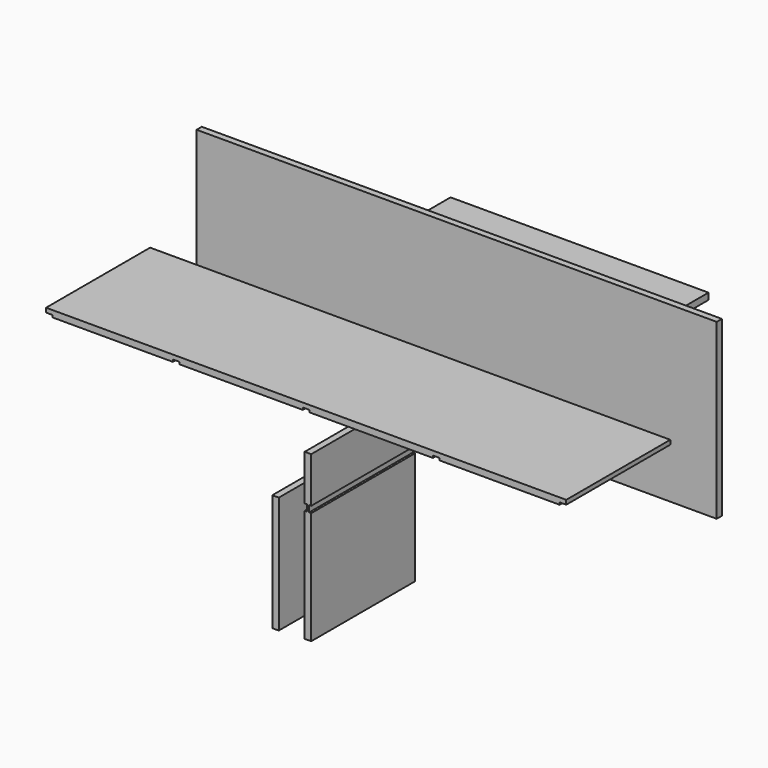
from build123d import *

# Parameters (mm, degrees)
F0_W      = 1524
F0_H      = 508
F1_DEPTH  = 19.05
F2_W      = 1524
F2_H      = 381
F3_DEPTH  = 19.05
F4_W      = 381
F4_H      = 482.6
F5_DEPTH  = 19.05
F6_W      = 19.05
F6_H      = 6.35
F7_DEPTH  = 381
F8_W      = 6.35
F8_H      = 19.05
F9_DEPTH  = 381
F10_W     = 755.65
F10_H     = 381
F11_DEPTH = 19.05
F12_W     = 19.05
F12_H     = 6.35
F13_DEPTH = 381
F15_START = -76.2
F14_W     = 381
F14_H     = 342.9
F15_DEPTH = 19.05


with BuildPart() as f1:
    # F0 (on Front) → F1 (new body)
    with BuildSketch(Plane.XZ):
        Rectangle(F0_W, F0_H)
    extrude(amount=F1_DEPTH)


with BuildPart() as f3:
    # F2 (on Top) → F3 (new body)
    with BuildSketch(Plane.XY):
        with Locations((0, -379.7005197639)):
            Rectangle(F2_W, F2_H)
    extrude(amount=F3_DEPTH)

    # F6 (on face) → F7 (cut)
    with BuildSketch(Plane.XZ.offset(570.2005197639)):
        with Locations((-752.475, 3.175)):
            Rectangle(F6_W, F6_H)
        Polygon((-390.525, 6.35), (-390.525, 0), (-381, 0), (-371.475, 0), (-371.475, 6.35), align=None)
        with Locations((0, 3.175)):
            Rectangle(F6_W, F6_H)
        Polygon((371.475, 6.35), (371.475, 0), (381, 0), (390.525, 0), (390.525, 6.35), align=None)
        with Locations((752.475, 3.175)):
            Rectangle(F6_W, F6_H)
    extrude(amount=-F7_DEPTH, mode=Mode.SUBTRACT)


with BuildPart() as f5:
    # F4 (on Right) → F5 (new body)
    with BuildSketch(Plane.YZ):
        with Locations((-385.0430771708, -343.9277655403)):
            Rectangle(F4_W, F4_H)
    extrude(amount=F5_DEPTH)

    # F8 (on face) → F9 (cut)
    with BuildSketch(Plane.XZ.offset(575.5430771708)):
        with Locations((15.875, -245.5027655403)):
            Rectangle(F8_W, F8_H)
        with Locations((3.175, -245.5027655403)):
            Rectangle(F8_W, F8_H)
    extrude(amount=-F9_DEPTH, mode=Mode.SUBTRACT)


with BuildPart() as f11:
    # F10 (on Top) → F11 (new body)
    with BuildSketch(Plane.XY):
        with Locations((-3.088874507, 244.3180690193)):
            Rectangle(F10_W, F10_H)
    extrude(amount=F11_DEPTH)

    # F12 (on face) → F13 (cut)
    with BuildSketch(Plane(origin=(0, 434.8180690193, 0), x_dir=(-1, 0, 0), z_dir=(0, 1, 0))):
        with Locations((0, 3.175)):
            Rectangle(F12_W, F12_H)
    extrude(amount=-F13_DEPTH, mode=Mode.SUBTRACT)


with BuildPart() as f15:
    # F14 (on Right) → F15 (new body)
    with BuildSketch(Plane.YZ.offset(F15_START)):
        with Locations((-384.6694380045, -417.3035614729)):
            Rectangle(F14_W, F14_H)
    extrude(amount=-F15_DEPTH)


solid = Compound([f1.part, f3.part, f5.part, f11.part, f15.part])
